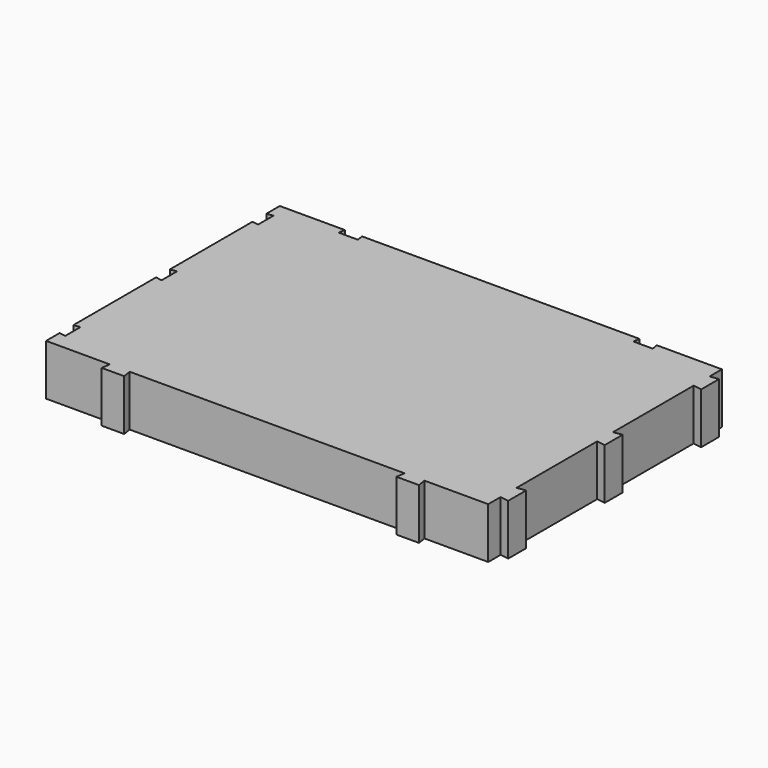
from build123d import *

# Parameters (mm, degrees)
PAD_DEPTH = 9.5


with BuildPart() as part:
    # Sketch → Pad (new body)
    with BuildSketch(Plane.XY):
        Polygon((-41.25, 27.25), (-29.1, 27.25), (-29.3, 26.05), (-25.7, 26.05), (-25.9, 27.25), (25.9, 27.25), (25.7, 26.05), (29.3, 26.05), (29.1, 27.25), (41.25, 27.25), (41.25, 24.35), (42.85, 24.6), (42.85, 20.4), (41.25, 20.65), (41.25, 1.85), (42.85, 2.1), (42.85, -2.1), (41.25, -1.85), (41.25, -20.65), (42.85, -20.4), (42.85, -24.6), (41.25, -24.35), (41.25, -27.25), (29.35, -27.25), (29.6, -28.85), (25.4, -28.85), (25.65, -27.25), (-25.65, -27.25), (-25.4, -28.85), (-29.6, -28.85), (-29.35, -27.25), (-41.25, -27.25), (-41.25, -24.1), (-40.05, -24.3), (-40.05, -20.7), (-41.25, -20.9), (-41.25, -1.6), (-40.05, -1.8), (-40.05, 1.8), (-41.25, 1.6), (-41.25, 20.9), (-40.05, 20.7), (-40.05, 24.3), (-41.25, 24.1), align=None)
    extrude(amount=-PAD_DEPTH)


solid = part.part
